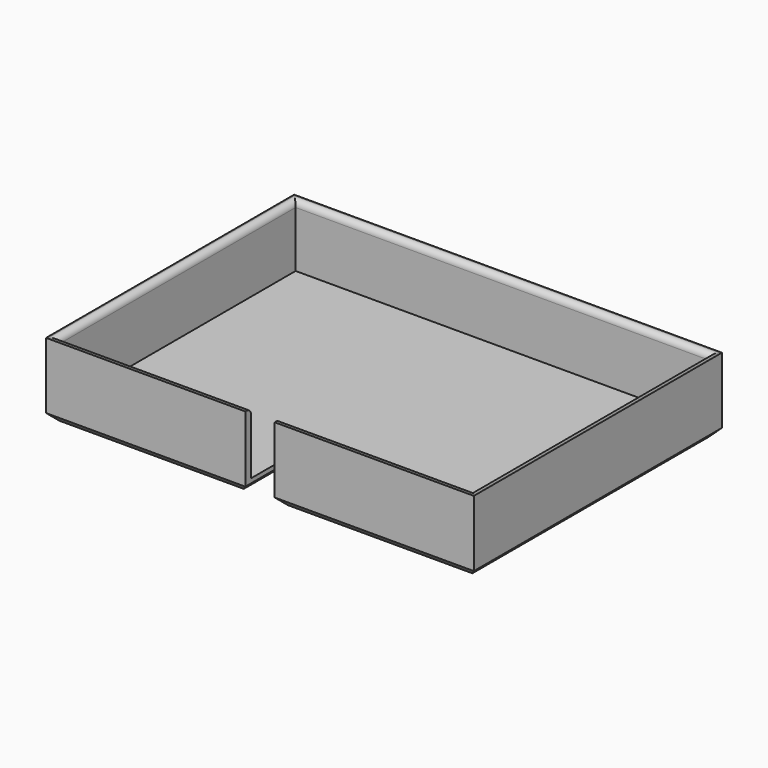
from build123d import *

# Parameters (mm, degrees)
F0_W     = 184.658
F0_H     = 133.858
F1_DEPTH = 5.08
F2_W     = 184.658
F2_H     = 133.858
F2_W_2   = 178.308
F2_H_2   = 127.508
F3_DEPTH = 31.75
F4_W     = 12.7
F4_H     = 31.75
F5_DEPTH = 25.4
F6_SIZE2 = 3.175
F6_SIZE  = 3.175
F7_R     = 2.54


with BuildPart() as f1:
    # F0 (on Top) → F1 (new body)
    with BuildSketch(Plane.XY):
        Rectangle(F0_W, F0_H)
    extrude(amount=F1_DEPTH)

    # F2 (on Top) → F3 (join)
    with BuildSketch(Plane.XY):
        Rectangle(F2_W, F2_H)
        Rectangle(F2_W_2, F2_H_2, mode=Mode.SUBTRACT)
    extrude(amount=F3_DEPTH)

    # F4 (on face) → F5 (cut)
    with BuildSketch(Plane.XZ.offset(66.929)):
        with Locations((0, 15.875)):
            Rectangle(F4_W, F4_H)
    extrude(amount=-F5_DEPTH, mode=Mode.SUBTRACT)

    # F6
    f6_edges = [f1.edges().sort_by_distance(p)[0] for p in [
        (49.3395, -66.929, 0),
        (6.35, -54.229, 0),
        (0, -41.529, 0),
        (-6.35, -54.229, 0),
        (-49.3395, -66.929, 0),
        (-92.329, 0, 0),
        (0, 66.929, 0),
        (92.329, 0, 0),
    ]]
    chamfer(f6_edges, length=F6_SIZE, length2=F6_SIZE2)

    # F7
    f7_edges = [f1.edges().sort_by_distance(p)[0] for p in [
        (47.752, -63.754, 31.75),
        (-47.752, -63.754, 31.75),
        (89.154, 0, 31.75),
        (-89.154, 0, 31.75),
        (0, 63.754, 31.75),
    ]]
    fillet(f7_edges, radius=F7_R)


solid = f1.part
